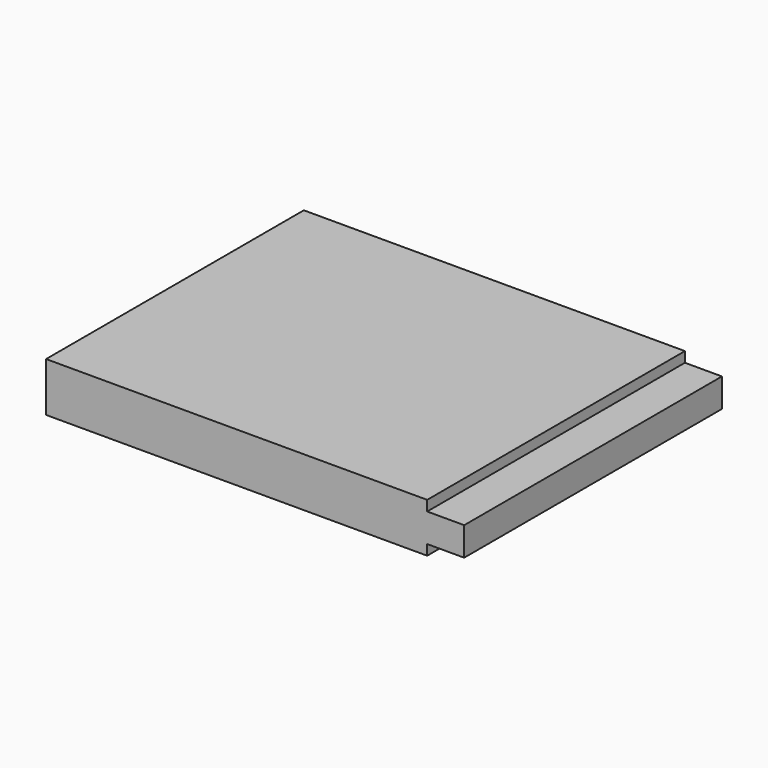
from build123d import *

# Parameters (mm, degrees)
F0_W          = 61
F0_H          = 47
F1_DEPTH      = 7.18
F2_W          = 5.3985562474
F2_H          = 1.5
F3_DEPTH      = 23.501
F3_DEPTH_BACK = 23.501


with BuildPart() as f1:
    # F0 (on Top) → F1 (new body)
    with BuildSketch(Plane.XY):
        Rectangle(F0_W, F0_H)
    extrude(amount=F1_DEPTH)

    # F2 (on Front) → F3 (cut, two sides)
    with BuildSketch(Plane.XZ) as f3_sk:
        with Locations((27.8007218763, 0.75)):
            Rectangle(F2_W, F2_H)
        with Locations((27.8007218763, 6.43)):
            Rectangle(F2_W, F2_H)
    extrude(amount=-F3_DEPTH, mode=Mode.SUBTRACT)
    extrude(f3_sk.sketch, amount=F3_DEPTH_BACK, mode=Mode.SUBTRACT)


solid = f1.part
